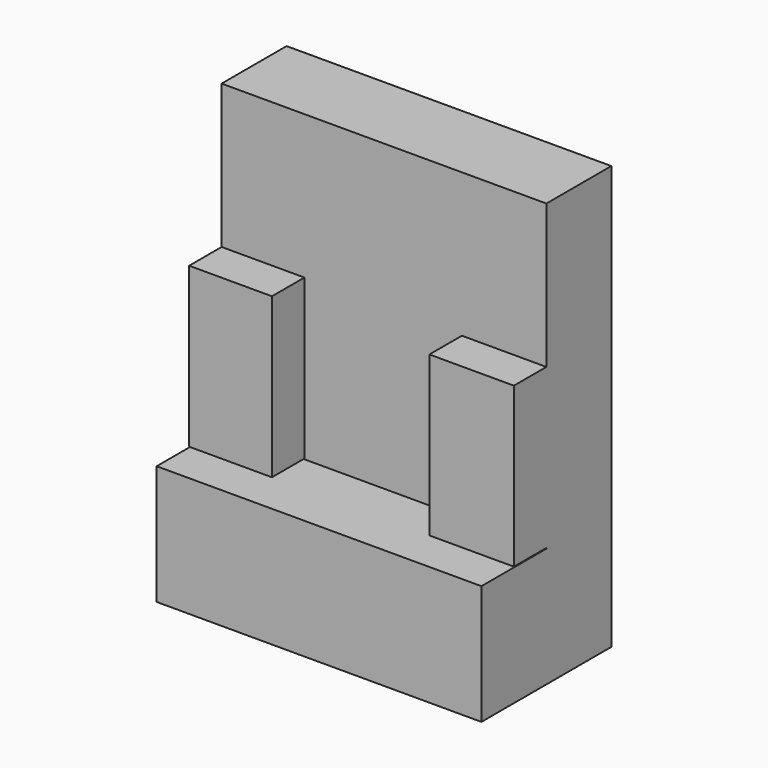
from build123d import *

# Parameters (mm, degrees)
F0_W     = 21.0800419182
F0_H     = 51.430279389
F0_W_2   = 21.0800442
F1_DEPTH = 50.8
F2_W     = 26.432774961
F2_H     = 49.8542264104
F3_DEPTH = 12.7
F4_W     = 102.5741808116
F4_H     = 37.7440936863
F5_DEPTH = 25.4
F6_DEPTH = 25.4
F7_DEPTH = 25.4


with BuildPart() as f1:
    # F0 (on Front) → F1 (new body)
    with BuildSketch(Plane.XZ):
        with Locations((-39.4168676153, -2.9509169981)):
            Rectangle(F0_W, F0_H)
        with Locations((41.1030893256, -2.9509169981)):
            Rectangle(F0_W_2, F0_H)
        Polygon((51.6431114256, 66.6497073153), (-49.9568885744, 66.6497073153), (-49.9568885744, 22.7642226964), (-28.8768466562, 22.7642226964), (-28.8768466562, -28.6660566926), (30.5630672256, -28.6660566926), (30.5630672256, 22.7642226964), (51.6431114256, 22.7642226964), align=None)
        Polygon((-28.8768466562, -28.6660566926), (-49.9568885744, -28.6660566926), (-49.9568885744, -65.8065884391), (51.6431114256, -65.8065884391), (51.6431114256, -28.6660566926), (30.5630672256, -28.6660566926), align=None)
    extrude(amount=-F1_DEPTH)

    # F2 (on Front) → F3 (cut)
    with BuildSketch(Plane.XZ):
        with Locations((38.4267239451, -3.2813642174)):
            Rectangle(F2_W, F2_H)
        Polygon((-50.4875965416, -28.2084774226), (-50.1530058682, -28.2084774226), (-24.0548325416, -28.2084774226), (-24.0548325416, 21.6457535774), (-50.4875965416, 21.6457535774), align=None)
    extrude(amount=-F3_DEPTH, mode=Mode.SUBTRACT)

    # F4 (on Front) → F5 (join)
    with BuildSketch(Plane.XZ):
        with Locations((0.5936603993, -47.2895335406)):
            Rectangle(F4_W, F4_H)
    extrude(amount=F5_DEPTH)

    # F6 (cut): a face of the model
    f6_faces = [f1.faces().sort_by_distance(p)[0] for p in [
        (0.7506624664, 0, 27.4054577125),
    ]]
    extrude(f6_faces, amount=-F6_DEPTH, mode=Mode.SUBTRACT)

    # F7 (cut): a face of the model
    f7_faces = [f1.faces().sort_by_distance(p)[0] for p in [
        (0.5936603993, -25.4, -47.2895335406),
    ]]
    extrude(f7_faces, amount=-F7_DEPTH, mode=Mode.SUBTRACT)


solid = f1.part
